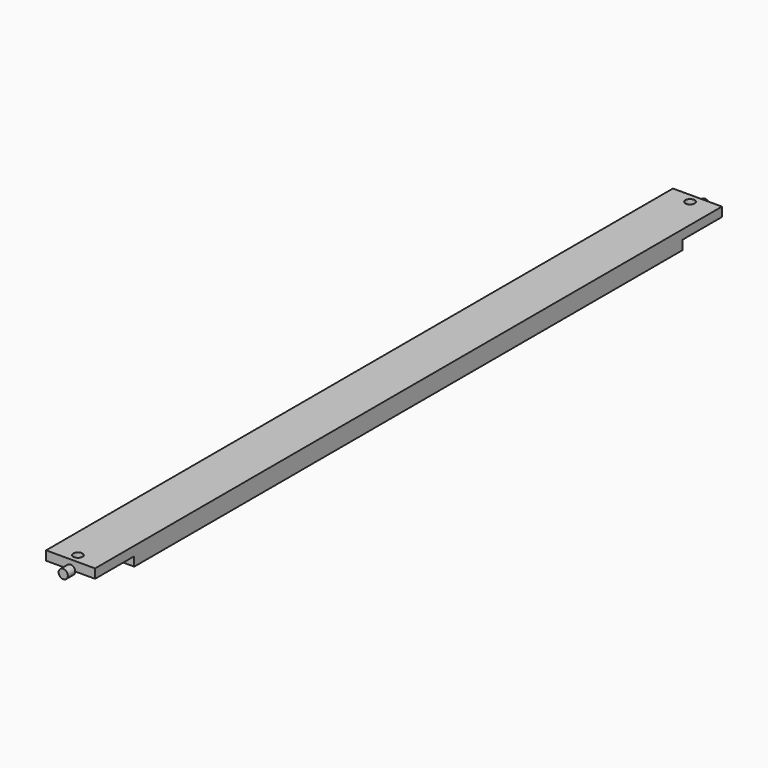
from build123d import *

# Parameters (mm, degrees)
F1_DEPTH = 50.8
F2_R     = 4.7625
F3_DEPTH = 25.4
F6_R     = 4.7625
F8_DEPTH = 9.525
F7_R     = 4.7625
F9_DEPTH = 9.525


with BuildPart() as f1:
    # F0 (on Right) → F1 (new body)
    with BuildSketch(Plane.YZ):
        Polygon((-355.6, 0), (-355.6, -9.525), (355.6, -9.525), (355.6, 0), (406.4, 0), (406.4, 9.525), (-406.4, 9.525), (-406.4, 0), align=None)
    extrude(amount=F1_DEPTH)

    # F2 (on face) → F3 (cut)
    with BuildSketch(Plane(origin=(0, 0, -9.525), x_dir=(1, 0, 0), z_dir=(0, 0, -1))):
        with Locations((25.4, -396.875)):
            Circle(F2_R)
        with Locations((25.4, 396.875)):
            Circle(F2_R)
    extrude(amount=-F3_DEPTH, mode=Mode.SUBTRACT)

    # F7 (on offset) → F9 (join)
    with BuildSketch(Plane.XZ.offset(-406.4)):
        with Locations((25.4, 0)):
            Circle(F7_R)
    extrude(amount=-F9_DEPTH)


with BuildPart() as f8:
    # F6 (on offset) → F8 (new body)
    with BuildSketch(Plane.XZ.offset(406.4)):
        with Locations((25.4, 0)):
            Circle(F6_R)
    extrude(amount=F8_DEPTH)


solid = Compound([f1.part, f8.part])
